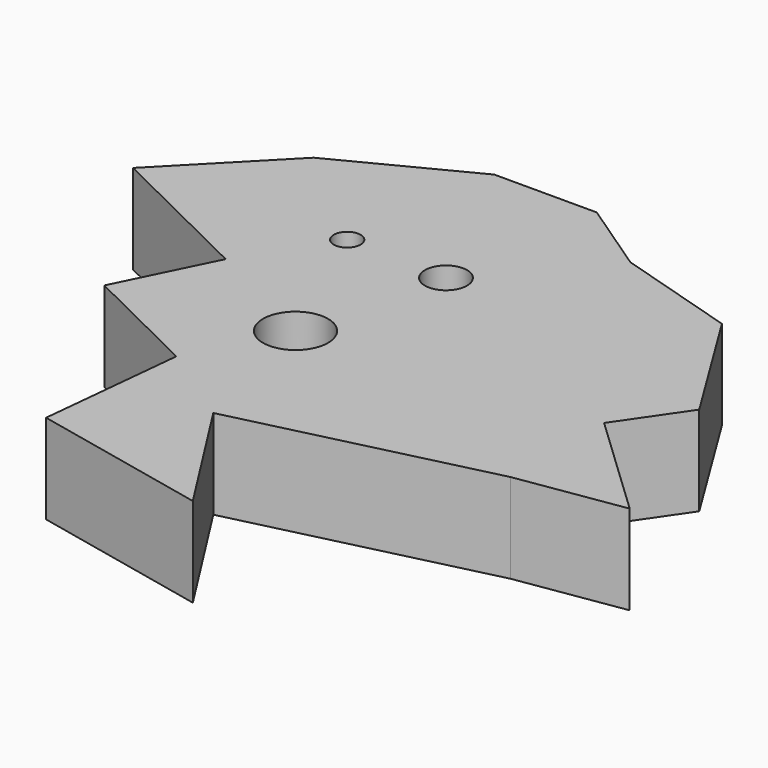
from build123d import *

# Parameters (mm, degrees)
F0_R     = 3.634035
F0_R_2   = 1.495827
F0_R_3   = 2.351017
F1_DEPTH = 10


with BuildPart() as f1:
    # F0 (on Top) → F1 (new body)
    with BuildSketch(Plane.XY):
        Polygon((-26.971949, 46.690065), (-41.275255, 39.334085), (-52.35902, 27.988252), (-35.292026, 19.58604), (-40.457923, 9.092811), (-27.176283, 2.554157), (-28.810946, -13.588144), (-8.990652, -17.879136), (-17.9813, -3.780163), (9.807976, 2.962823), (21.659287, 4.80182), (9.807976, 16.04013), (14.711966, 23.191784), (6.129985, 37.086423), (-7.355989, 41.173078), (-15.529306, 46.690065), align=None)
        with Locations((-22.072891, 12.813536)):
            Circle(F0_R, mode=Mode.SUBTRACT)
        with Locations((-29.309204, 29.072769)):
            Circle(F0_R_2, mode=Mode.SUBTRACT)
        with Locations((-18.074725, 28.82177)):
            Circle(F0_R_3, mode=Mode.SUBTRACT)
    extrude(amount=F1_DEPTH)


solid = f1.part
